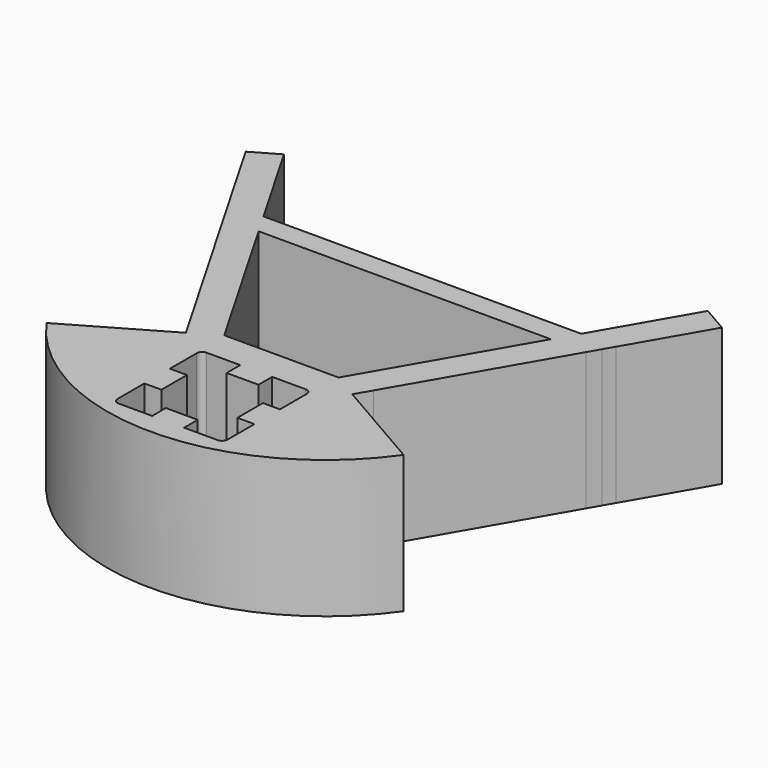
from build123d import *

# Parameters (mm, degrees)
F0_W     = 3.1
F0_H     = 2.9
F0_W_2   = 2.9
F0_H_2   = 3.1
F1_DEPTH = 25
F2_R     = 1


with BuildPart() as f1:
    # F0 (on Top) → F1 (new body)
    with BuildSketch(Plane.XY):
        with BuildLine():
            Line((-10, -0.3823358958), (-32.44, -0.3823358958))
            ThreePointArc((-32.44, -0.3823358958), (0, -17.2338951597), (32.44, -0.3823358958))
            Line((32.44, -0.3823358958), (10, -0.3823358958))
            Line((10, -0.3823358958), (10, -0.4138951597))
            Line((10, -0.4138951597), (10, -3.3138951597))
            Line((10, -3.3138951597), (10, -6.2138951597))
            Line((10, -6.2138951597), (10, -13.3138951597))
            Line((10, -13.3138951597), (2.9, -13.3138951597))
            Line((2.9, -13.3138951597), (0, -13.3138951597))
            Line((0, -13.3138951597), (-2.9, -13.3138951597))
            Line((-2.9, -13.3138951597), (-10, -13.3138951597))
            Line((-10, -13.3138951597), (-10, -6.2138951597))
            Line((-10, -6.2138951597), (-10, -3.3138951597))
            Line((-10, -3.3138951597), (-10, -0.4138951597))
            Line((-10, -0.4138951597), (-10, -0.3823358958))
        make_face()
        with BuildLine():
            Line((28.8595280896, 44.4161048403), (32.9867018661, 44.4161048403))
            ThreePointArc((32.9867018661, 44.4161048403), (31.8657182591, 46.010563932), (30.6677337786, 47.5480089641))
            Line((30.6677337786, 47.5480089641), (28.8595280896, 44.4161048403))
        make_face()
        with BuildLine():
            Line((32.9867018661, 44.4161048403), (35.2103810507, 44.4161048403))
            Line((35.2103810507, 44.4161048403), (43.2644919243, 58.3662340832))
            Line((43.2644919243, 58.3662340832), (38.5013522035, 61.1162340832))
            Line((38.5013522035, 61.1162340832), (30.6677337786, 47.5480089641))
            ThreePointArc((30.6677337786, 47.5480089641), (31.8657182591, 46.010563932), (32.9867018661, 44.4161048403))
        make_face()
        with BuildLine():
            Line((-35.2103810507, 44.4161048403), (-32.9867018661, 44.4161048403))
            ThreePointArc((-32.9867018661, 44.4161048403), (-31.8657182591, 46.010563932), (-30.6677337786, 47.5480089641))
            Line((-30.6677337786, 47.5480089641), (-38.5013522035, 61.1162340832))
            Line((-38.5013522035, 61.1162340832), (-43.2644919243, 58.3662340832))
            Line((-43.2644919243, 58.3662340832), (-35.2103810507, 44.4161048403))
        make_face()
        with BuildLine():
            ThreePointArc((-30.6677337786, 47.5480089641), (-31.8657182591, 46.010563932), (-32.9867018661, 44.4161048403))
            Line((-32.9867018661, 44.4161048403), (-28.8595280896, 44.4161048403))
            Line((-28.8595280896, 44.4161048403), (-30.6677337786, 47.5480089641))
        make_face()
        Polygon((-15.1194919243, 9.6176641042), (-32.44, -0.3823358958), (-10, -0.3823358958), (-10, 6.6861048403), (-2.9, 6.6861048403), (0, 6.6861048403), (2.9, 6.6861048403), (10, 6.6861048403), (10, -0.3823358958), (32.44, -0.3823358958), (15.1194919243, 9.6176641042), (10.3563522035, 12.3676641042), (10.3843194756, 12.4161048403), (-10.3843194756, 12.4161048403), (-10.3563522035, 12.3676641042), align=None)
        Polygon((10.3563522035, 12.3676641042), (15.1194919243, 9.6176641042), (16.7351724366, 12.4161048403), (10.3843194756, 12.4161048403), align=None)
        Polygon((-16.7351724366, 12.4161048403), (-15.1194919243, 9.6176641042), (-10.3563522035, 12.3676641042), (-10.3843194756, 12.4161048403), align=None)
        with Locations((-8.45, -4.7638951597)):
            Rectangle(F0_W, F0_H)
        with Locations((-8.45, -1.8638951597)):
            Rectangle(F0_W, F0_H)
        with Locations((-1.45, 5.1361048403)):
            Rectangle(F0_W_2, F0_H_2)
        with Locations((1.45, 5.1361048403)):
            Rectangle(F0_W_2, F0_H_2)
        with Locations((8.45, -4.7638951597)):
            Rectangle(F0_W, F0_H)
        with Locations((8.45, -1.8638951597)):
            Rectangle(F0_W, F0_H)
        with Locations((1.45, -11.7638951597)):
            Rectangle(F0_W_2, F0_H_2)
        with Locations((-1.45, -11.7638951597)):
            Rectangle(F0_W_2, F0_H_2)
        Polygon((-32.900979974, 40.4161048403), (-16.7351724366, 12.4161048403), (-10.3843194756, 12.4161048403), (-26.5501270129, 40.4161048403), align=None)
        Polygon((-28.8595280896, 44.4161048403), (-26.5501270129, 40.4161048403), (26.5501270129, 40.4161048403), (28.8595280896, 44.4161048403), align=None)
        with BuildLine():
            Line((26.5501270129, 40.4161048403), (32.900979974, 40.4161048403))
            Line((32.900979974, 40.4161048403), (34.1452121911, 42.5711782568))
            ThreePointArc((34.1452121911, 42.5711782568), (33.5786302545, 43.501599623), (32.9867018661, 44.4161048403))
            Line((32.9867018661, 44.4161048403), (28.8595280896, 44.4161048403))
            Line((28.8595280896, 44.4161048403), (26.5501270129, 40.4161048403))
        make_face()
        Polygon((10.3843194756, 12.4161048403), (16.7351724366, 12.4161048403), (32.900979974, 40.4161048403), (26.5501270129, 40.4161048403), align=None)
        with BuildLine():
            Line((-34.1452121911, 42.5711782568), (-32.900979974, 40.4161048403))
            Line((-32.900979974, 40.4161048403), (-26.5501270129, 40.4161048403))
            Line((-26.5501270129, 40.4161048403), (-28.8595280896, 44.4161048403))
            Line((-28.8595280896, 44.4161048403), (-32.9867018661, 44.4161048403))
            ThreePointArc((-32.9867018661, 44.4161048403), (-33.5786302545, 43.501599623), (-34.1452121911, 42.5711782568))
        make_face()
        with BuildLine():
            Line((-35.2103810507, 44.4161048403), (-34.1452121911, 42.5711782568))
            ThreePointArc((-34.1452121911, 42.5711782568), (-33.5786302545, 43.501599623), (-32.9867018661, 44.4161048403))
            Line((-32.9867018661, 44.4161048403), (-35.2103810507, 44.4161048403))
        make_face()
        with BuildLine():
            ThreePointArc((32.9867018661, 44.4161048403), (33.5786302545, 43.501599623), (34.1452121911, 42.5711782568))
            Line((34.1452121911, 42.5711782568), (35.2103810507, 44.4161048403))
            Line((35.2103810507, 44.4161048403), (32.9867018661, 44.4161048403))
        make_face()
    extrude(amount=F1_DEPTH)

    # F2
    f2_edges = [f1.edges().sort_by_distance(p)[0] for p in [
        (-10, -13.313895, 12.5),
        (-10, 6.686105, 12.5),
        (10, -13.313895, 12.5),
        (10, 6.686105, 12.5),
    ]]
    fillet(f2_edges, radius=F2_R)


solid = f1.part
